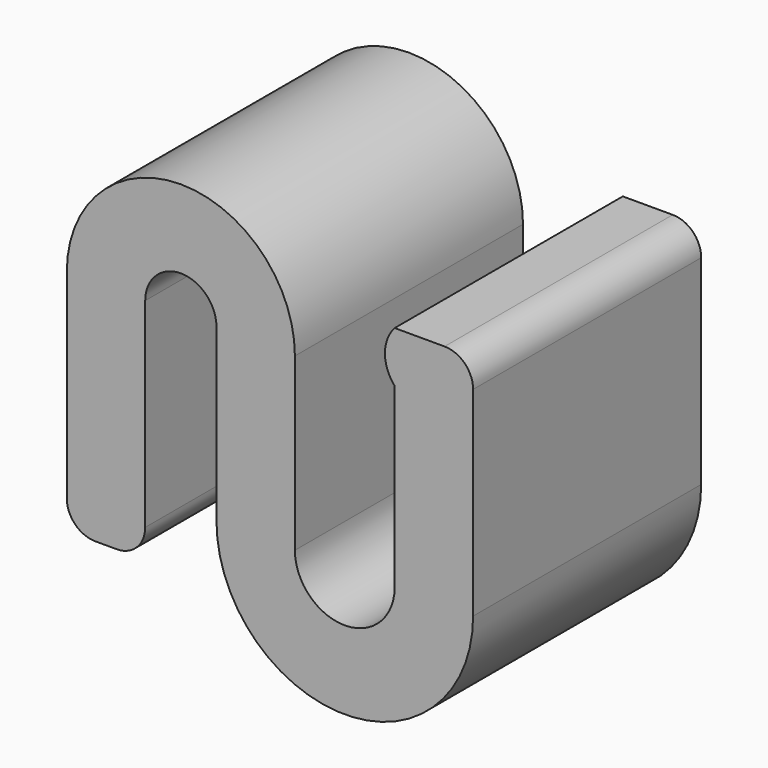
from build123d import *

# Parameters (mm, degrees)
F1_DEPTH = 10
F2_R     = 1


with BuildPart() as f1:
    # F0 (on Front) → F1 (new body)
    with BuildSketch(Plane.XZ):
        with BuildLine():
            Line((-2.5, -5), (-2.5, -0.7996710384))
            ThreePointArc((-2.5, -0.7996710384), (-4.4903703492, 0.6547921201), (-5.25, 3))
            Line((-5.25, 3), (-5.25, -5))
            Line((-5.25, -5), (-2.5, -5))
        make_face()
        with BuildLine():
            ThreePointArc((-2.5, 3), (-1.25, 4.25), (0, 3))
            Line((0, 3), (0, -0.7996710384))
            ThreePointArc((0, -0.7996710384), (0.4125701881, -0.6381121986), (0.804741116, -0.4319147638))
            ThreePointArc((0.804741116, -0.4319147638), (1.3864258654, 0.248946923), (2.0914127302, 0.8011455331))
            ThreePointArc((2.0914127302, 0.8011455331), (2.581817514, 1.8523177532), (2.75, 3))
            ThreePointArc((2.75, 3), (-1.25, 7), (-5.25, 3))
            ThreePointArc((-5.25, 3), (-4.4903703492, 0.6547921201), (-2.5, -0.7996710384))
            Line((-2.5, -0.7996710384), (-2.5, 3))
        make_face()
        with BuildLine():
            ThreePointArc((2.0914127302, 0.8011455331), (1.5176214529, 0.1120471795), (0.804741116, -0.4319147638))
            ThreePointArc((0.804741116, -0.4319147638), (0.2058956127, -1.6543895397), (0, -3))
            ThreePointArc((0, -3), (4.5, -7.5), (9, -3))
            ThreePointArc((9, -3), (8.25, -0.5125314072), (6.25, 1.1457809879))
            Line((6.25, 1.1457809879), (6.25, -3))
            ThreePointArc((6.25, -3), (4.5, -4.75), (2.75, -3))
            Line((2.75, -3), (2.75, 1.1457809879))
            ThreePointArc((2.75, 1.1457809879), (2.4135783218, 0.987084722), (2.0914127302, 0.8011455331))
        make_face()
        with BuildLine():
            Line((6.25, 5), (6.25, 3.2109645009))
            ThreePointArc((6.25, 3.2109645009), (7.7287801394, 2.8521141551), (8.5917011606, 4.1054822505))
            ThreePointArc((8.5917011606, 4.1054822505), (8.5033680953, 4.5842623898), (8.25, 5))
            Line((8.25, 5), (6.25, 5))
        make_face()
        with BuildLine():
            ThreePointArc((6.25, 1.1457809879), (8.25, -0.5125314072), (9, -3))
            Line((9, -3), (9, 5))
            Line((9, 5), (8.25, 5))
            ThreePointArc((8.25, 5), (8.5033680953, 4.5842623898), (8.5917011606, 4.1054822505))
            ThreePointArc((8.5917011606, 4.1054822505), (7.7287801394, 2.8521141551), (6.25, 3.2109645009))
            Line((6.25, 3.2109645009), (6.25, 1.1457809879))
        make_face()
        with BuildLine():
            ThreePointArc((2.75, 3), (2.581817514, 1.8523177532), (2.0914127302, 0.8011455331))
            ThreePointArc((2.0914127302, 0.8011455331), (2.4135783218, 0.987084722), (2.75, 1.1457809879))
            Line((2.75, 1.1457809879), (2.75, 3))
        make_face()
        with BuildLine():
            ThreePointArc((2.0914127302, 0.8011455331), (1.3864258654, 0.248946923), (0.804741116, -0.4319147638))
            ThreePointArc((0.804741116, -0.4319147638), (1.5176214529, 0.1120471795), (2.0914127302, 0.8011455331))
        make_face()
        with BuildLine():
            ThreePointArc((0.804741116, -0.4319147638), (0.4125701881, -0.6381121986), (0, -0.7996710384))
            Line((0, -0.7996710384), (0, -3))
            ThreePointArc((0, -3), (0.2058956127, -1.6543895397), (0.804741116, -0.4319147638))
        make_face()
        with BuildLine():
            ThreePointArc((6.25, 1.1457809879), (8.25, -0.5125314072), (9, -3))
            Line((9, -3), (9, 5))
            Line((9, 5), (8.25, 5))
            ThreePointArc((8.25, 5), (8.5033680953, 4.5842623898), (8.5917011606, 4.1054822505))
            ThreePointArc((8.5917011606, 4.1054822505), (7.7287801394, 2.8521141551), (6.25, 3.2109645009))
            Line((6.25, 3.2109645009), (6.25, 1.1457809879))
        make_face()
        with BuildLine():
            ThreePointArc((6.25, 5), (5.9082988394, 4.1054822505), (6.25, 3.2109645009))
            Line((6.25, 3.2109645009), (6.25, 5))
        make_face()
    extrude(amount=F1_DEPTH)

    # F2
    f2_edges = [f1.edges().sort_by_distance(p)[0] for p in [
        (-2.5, -5, -5),
        (-5.25, -5, -5),
        (9, -5, 5),
    ]]
    fillet(f2_edges, radius=F2_R)


solid = f1.part
